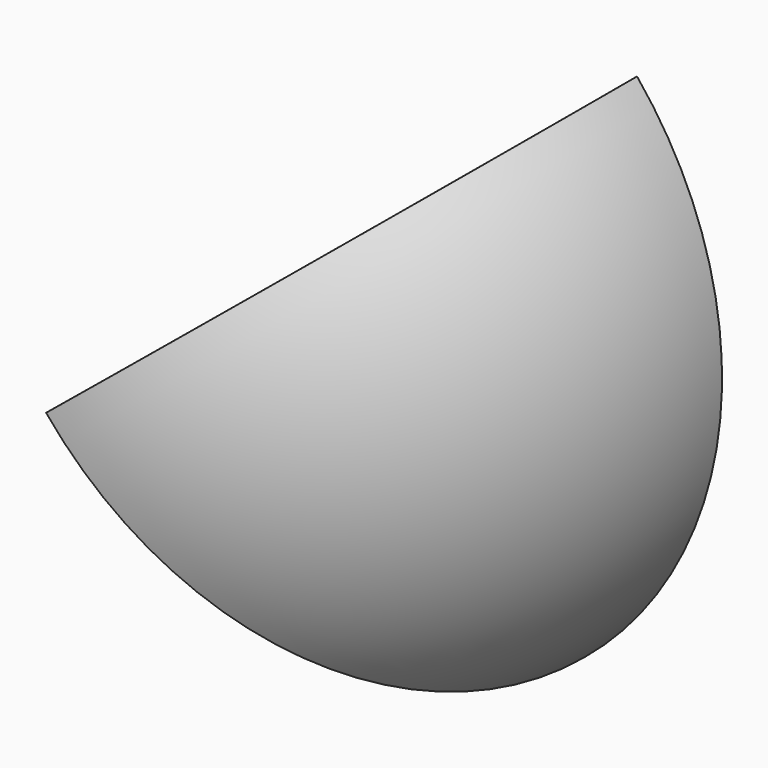
from build123d import *

# Parameters (mm, degrees)
F1_ANGLE = 90


with BuildPart() as f1:
    # F0 (on Front) → F1 (revolve)
    with BuildSketch(Plane.XZ):
        with BuildLine():
            Line((67.8942573144, -82.9025436147), (68.397177739, -83.5166365304))
            ThreePointArc((68.397177739, -83.5166365304), (107.4192882258, -10.6910718393), (83.5166365304, 68.397177739))
            Line((83.5166365304, 68.397177739), (82.9025436147, 67.8942573144))
            ThreePointArc((82.9025436147, 67.8942573144), (106.6294405182, -10.6124610169), (67.8942573144, -82.9025436147))
        make_face()
    revolve(axis=Axis((33.9471286572, 0, -41.4512718074), (0.6336005349, 0, -0.7736603662)), revolution_arc=F1_ANGLE)


solid = f1.part
